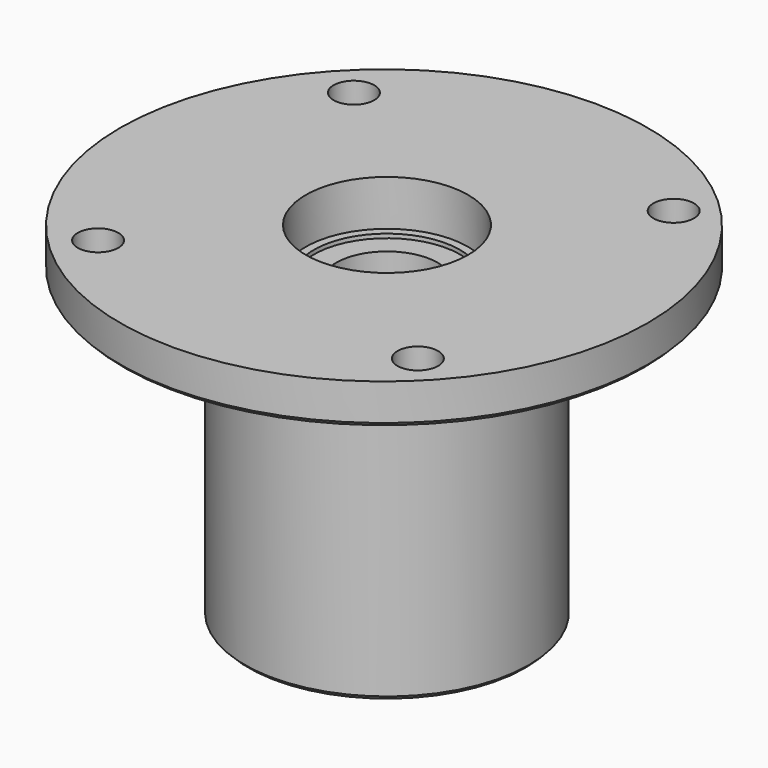
from build123d import *

# Parameters (mm, degrees)
F0_R      = 82.55
F1_DEPTH  = 12.7
F2_R      = 44.45
F4_DEPTH  = 95.25
F3_R      = 6.35
F5_DEPTH  = 25.4
F6_R      = 15.875
F7_DEPTH  = 127
F8_R      = 25.4
F8_R_2    = 15.875
F9_DEPTH  = 14.2875
F10_R     = 15.875
F11_DEPTH = 107.951
F12_R     = 25.4
F13_DEPTH = 1.5875
F14_R     = 25.4
F14_R_2   = 15.875
F15_DEPTH = 14.2875
F16_R     = 22.86
F17_DEPTH = 1.27
F18_R     = 22.86
F19_DEPTH = 1.27
F20_SIZE  = 1.27
F21_SIZE  = 1.27


with BuildPart() as f1:
    # F0 (on Top) → F1 (new body)
    with BuildSketch(Plane.XY):
        with Locations((-0.4078939673, -0.6442572922)):
            Circle(F0_R)
    extrude(amount=F1_DEPTH)

    # F2 (on face) → F4 (join)
    with BuildSketch(Plane(origin=(0, 0, 0), x_dir=(1, 0, 0), z_dir=(0, 0, -1))):
        Circle(F2_R)
    extrude(amount=F4_DEPTH)

    # F3 (on face) → F5 (cut)
    with BuildSketch(Plane(origin=(0, 0, 0), x_dir=(1, 0, 0), z_dir=(0, 0, -1))):
        with Locations((-49.9900558808, 50.4357930472)):
            Circle(F3_R)
        with Locations((50.0097441192, -49.5640069528)):
            Circle(F3_R)
        with Locations((50.0097441192, 50.4357930472)):
            Circle(F3_R)
        with Locations((-49.9900558808, -49.5640069528)):
            Circle(F3_R)
    extrude(amount=-F5_DEPTH, mode=Mode.SUBTRACT)

    # F6 (on face) → F7 (cut)
    with BuildSketch(Plane(origin=(0, 0, 0), x_dir=(1, 0, 0), z_dir=(0, 0, -1))):
        Circle(F6_R)
    extrude(amount=F7_DEPTH, mode=Mode.SUBTRACT)

    # F8 (on face) → F9 (cut)
    with BuildSketch(Plane(origin=(0, 0, 0), x_dir=(1, 0, 0), z_dir=(0, 0, -1))):
        Circle(F8_R)
        Circle(F8_R_2, mode=Mode.SUBTRACT)
    extrude(amount=-F9_DEPTH, mode=Mode.SUBTRACT)

    # F10 (on face) → F11 (cut, through all)
    with BuildSketch(Plane(origin=(0, 0, -95.25), x_dir=(1, 0, 0), z_dir=(0, 0, -1))):
        Circle(F10_R)
    extrude(amount=-F11_DEPTH, mode=Mode.SUBTRACT)

    # F12 (on face) → F13 (cut)
    with BuildSketch(Plane.XY):
        Circle(F12_R)
    extrude(amount=-F13_DEPTH, mode=Mode.SUBTRACT)

    # F14 (on face) → F15 (cut)
    with BuildSketch(Plane(origin=(0, 0, -95.25), x_dir=(1, 0, 0), z_dir=(0, 0, -1))):
        Circle(F14_R)
        Circle(F14_R_2, mode=Mode.SUBTRACT)
    extrude(amount=-F15_DEPTH, mode=Mode.SUBTRACT)

    # F16 (on face) → F17 (cut)
    with BuildSketch(Plane(origin=(0, 0, -80.9625), x_dir=(1, 0, 0), z_dir=(0, 0, -1))):
        Circle(F16_R)
    extrude(amount=-F17_DEPTH, mode=Mode.SUBTRACT)

    # F18 (on face) → F19 (cut)
    with BuildSketch(Plane.XY.offset(-1.5875)):
        Circle(F18_R)
    extrude(amount=-F19_DEPTH, mode=Mode.SUBTRACT)

    # F20
    f20_edges = [f1.edges().sort_by_distance(p)[0] for p in [
        (-82.957894, -0.644257, 0),
    ]]
    chamfer(f20_edges, length=F20_SIZE)

    # F21
    f21_edges = [f1.edges().sort_by_distance(p)[0] for p in [
        (-44.45, 0, -95.25),
    ]]
    chamfer(f21_edges, length=F21_SIZE)


solid = f1.part
